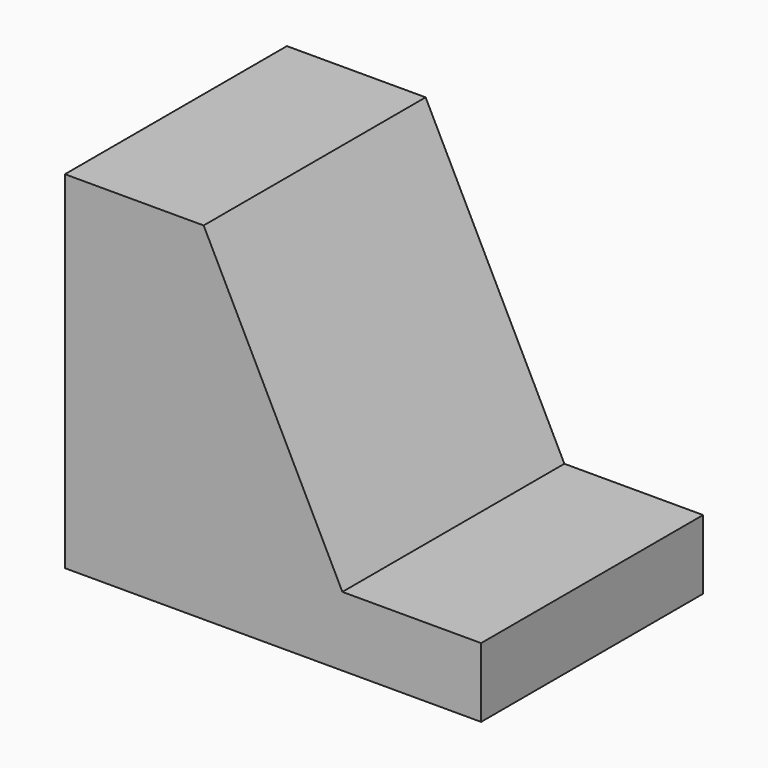
from build123d import *

# Parameters (mm, degrees)
F0_W     = 38.1
F0_H     = 31.75
F1_DEPTH = 25.4
F2_W     = 12.7
F2_H     = 25.4
F3_DEPTH = 25.401


with BuildPart() as f1:
    # F0 (on Front) → F1 (new body)
    with BuildSketch(Plane.XZ):
        with Locations((19.05, 15.875)):
            Rectangle(F0_W, F0_H)
    extrude(amount=F1_DEPTH)

    # F2 (on face) → F3 (cut, through all)
    with BuildSketch(Plane.XZ.offset(25.4)):
        Polygon((25.4, 6.35), (25.4, 31.75), (12.7, 31.75), align=None)
        with Locations((31.75, 19.05)):
            Rectangle(F2_W, F2_H)
    extrude(amount=-F3_DEPTH, mode=Mode.SUBTRACT)


solid = f1.part
